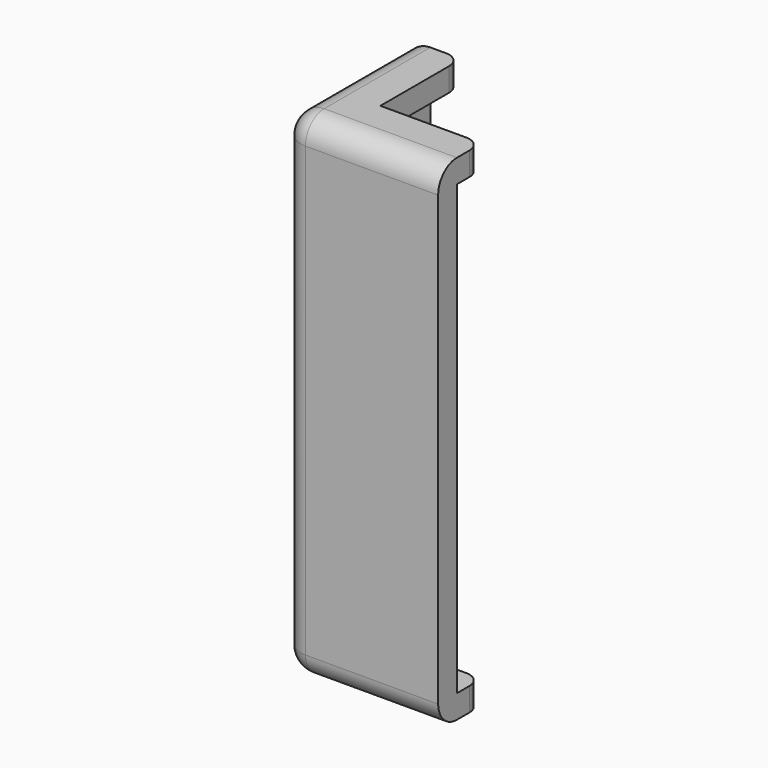
from build123d import *

# Parameters (mm, degrees)
PAD_DEPTH    = 63.4
SKETCH001_W  = 20
SKETCH001_H  = 20
POCKET_DEPTH = 57.4
FILLET_R     = 2
FILLET001_R  = 3


with BuildPart() as part:
    # Sketch → Pad (new body)
    with BuildSketch(Plane.XY):
        Polygon((0, 0), (20, 0), (20, 7), (7, 7), (7, 20), (0, 20), align=None)
    extrude(amount=PAD_DEPTH)

    # Sketch001 (on DatumPlane) → Pocket (cut)
    with BuildSketch(Plane(origin=(0, 0, 3), x_dir=(-1, 0, 0), z_dir=(0, 0, 1))):
        with Locations((-13, -13)):
            Rectangle(SKETCH001_W, SKETCH001_H)
    extrude(amount=POCKET_DEPTH, mode=Mode.SUBTRACT)

    # Fillet
    fillet_edges = [part.edges().sort_by_distance(p)[0] for p in [
        (7, 20, 61.9),
        (20, 7, 61.9),
        (7, 20, 1.5),
        (20, 7, 1.5),
    ]]
    fillet(fillet_edges, radius=FILLET_R)

    # Fillet001
    fillet001_edges = [part.edges().sort_by_distance(p)[0] for p in [
        (10, 0, 63.4),
        (0, 10, 63.4),
        (0, 0, 31.7),
        (0, 10, 0),
        (10, 0, 0),
    ]]
    fillet(fillet001_edges, radius=FILLET001_R)


solid = part.part
